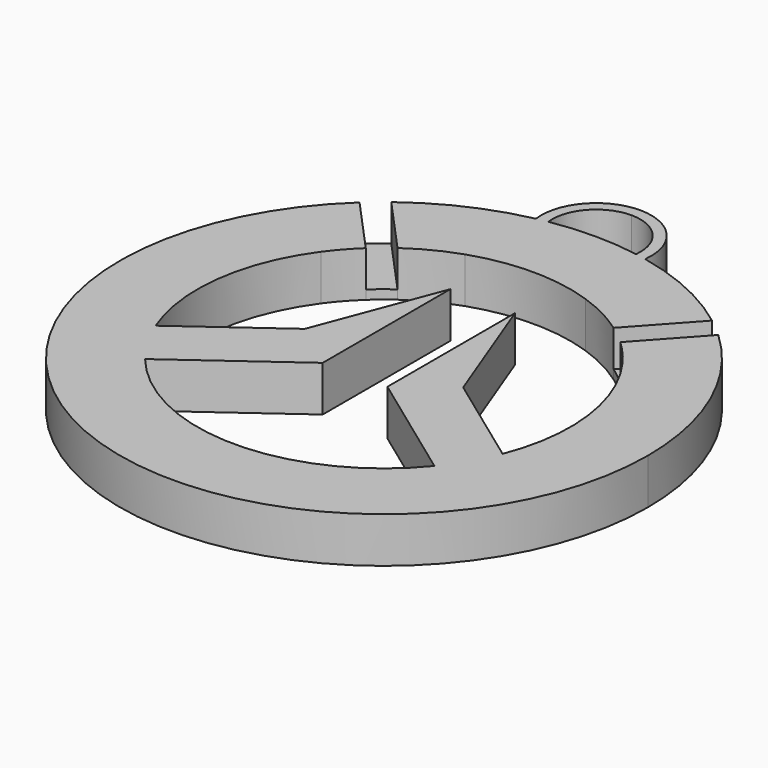
from build123d import *

# Parameters (mm, degrees)
F1_DEPTH = 6.35
F2_DEPTH = 6.35
F3_DEPTH = 1.27
F4_DEPTH = 1.27
F5_DEPTH = 6.35
F6_DEPTH = 6.35


with BuildPart() as f1:
    # F0 (on Top) → F1 (new body)
    with BuildSketch(Plane.XY):
        with BuildLine():
            Line((15.0724098278, 21.2138513725), (22.375966573, 29.2474573979))
            ThreePointArc((22.375966573, 29.2474573979), (15.3764175488, 33.4613721728), (7.62, 36.0282284372))
            ThreePointArc((7.62, 36.0282284372), (6.8712399575, 36.1784978374), (6.1195247725, 36.3132078021))
            ThreePointArc((6.1195247725, 36.3132078021), (0, 36.8252310831), (-6.1195247725, 36.3132078021))
            ThreePointArc((-6.1195247725, 36.3132078021), (-6.8712399575, 36.1784978374), (-7.62, 36.0282284372))
            ThreePointArc((-7.62, 36.0282284372), (-7.6206373591, 36.0280936293), (-7.6212747158, 36.0279588102))
            ThreePointArc((-7.6212747158, 36.0279588102), (-15.3770094975, 33.4611001498), (-22.375966573, 29.2474573979))
            Line((-22.375966573, 29.2474573979), (-15.0724098278, 21.2138513725))
            ThreePointArc((-15.0724098278, 21.2138513725), (-11.8541639172, 23.1664374882), (-8.3878839091, 24.6342938116))
            ThreePointArc((-8.3878839091, 24.6342938116), (0, 26.0231632987), (8.3878839091, 24.6342938116))
            ThreePointArc((8.3878839091, 24.6342938116), (11.8541639172, 23.1664374882), (15.0724098278, 21.2138513725))
        make_face()
    extrude(amount=F1_DEPTH)

    # F0 (on Top) → F5 (cut)
    with BuildSketch(Plane.XY):
        with BuildLine():
            ThreePointArc((-6.1195247725, 36.3132078021), (0, 36.8252310831), (6.1195247725, 36.3132078021))
            ThreePointArc((6.1195247725, 36.3132078021), (4.5971716019, 41.1152747998), (0, 43.1752310831))
            ThreePointArc((0, 43.1752310831), (-4.5971716019, 41.1152747998), (-6.1195247725, 36.3132078021))
        make_face()
    extrude(amount=-F5_DEPTH, mode=Mode.SUBTRACT)

    # F0 (on Top) → F6 (join)
    with BuildSketch(Plane.XY):
        with BuildLine():
            ThreePointArc((6.1195247725, 36.3132078021), (6.8712399575, 36.1784978374), (7.62, 36.0282284372))
            ThreePointArc((7.62, 36.0282284372), (0, 44.6992310831), (-7.62, 36.0282284372))
            ThreePointArc((-7.62, 36.0282284372), (-6.8712399575, 36.1784978374), (-6.1195247725, 36.3132078021))
            ThreePointArc((-6.1195247725, 36.3132078021), (-4.5971716019, 41.1152747998), (0, 43.1752310831))
            ThreePointArc((0, 43.1752310831), (4.5971716019, 41.1152747998), (6.1195247725, 36.3132078021))
        make_face()
    extrude(amount=F6_DEPTH)


with BuildPart() as f2:
    # F0 (on Top) → F2 (new body)
    with BuildSketch(Plane.XY):
        with BuildLine():
            ThreePointArc((-25.0199841303, 27.0203263941), (-14.7433196233, -33.7451058793), (36.8252310831, 0))
            ThreePointArc((36.8252310831, 0), (33.7451058793, 14.7433196233), (25.0199841303, 27.0203263941))
            Line((25.0199841303, 27.0203263941), (17.7531453108, 19.0271085466))
            ThreePointArc((17.7531453108, 19.0271085466), (19.4881594674, 17.2457724861), (21.0452308897, 15.3069685069))
            ThreePointArc((21.0452308897, 15.3069685069), (25.8157518244, 3.2790220816), (24.2036932435, -9.5596161767))
            Line((24.2036932435, -9.5596161767), (17.005158821, -4.326326612))
            Line((17.005158821, -4.326326612), (11.0541770047, 0))
            Line((11.0541770047, 0), (4.5139469962, 17.2177678458))
            Line((4.5139469962, 17.2177678458), (4.5139469962, -5.0363289596))
            Line((4.5139469962, -5.0363289596), (20.1827575969, -16.4274564025))
            ThreePointArc((20.1827575969, -16.4274564025), (0, -26.0231632987), (-20.1827575969, -16.4274564025))
            Line((-20.1827575969, -16.4274564025), (-4.5139469962, -5.0363289596))
            Line((-4.5139469962, -5.0363289596), (-4.5139469962, 0))
            Line((-4.5139469962, 0), (-4.5139469962, 17.2177678458))
            Line((-4.5139469962, 17.2177678458), (-11.0541770047, 0))
            Line((-11.0541770047, 0), (-17.005158821, -4.326326612))
            Line((-17.005158821, -4.326326612), (-24.2036932435, -9.5596161767))
            ThreePointArc((-24.2036932435, -9.5596161767), (-25.8157518244, 3.2790220816), (-21.0452308897, 15.3069685069))
            ThreePointArc((-21.0452308897, 15.3069685069), (-19.4881594674, 17.2457724861), (-17.7531453108, 19.0271085466))
            Line((-17.7531453108, 19.0271085466), (-25.0199841303, 27.0203263941))
        make_face()
    extrude(amount=F2_DEPTH)


with BuildPart() as f3:
    # F0 (on Top) → F3 (new body)
    with BuildSketch(Plane.XY):
        with BuildLine():
            ThreePointArc((-22.375966573, 29.2474573979), (-23.7241240912, 28.1649352995), (-25.0199841303, 27.0203263941))
            Line((-25.0199841303, 27.0203263941), (-17.7531453108, 19.0271085466))
            ThreePointArc((-17.7531453108, 19.0271085466), (-16.4491558624, 20.1650762331), (-15.0724098278, 21.2138513725))
            Line((-15.0724098278, 21.2138513725), (-22.375966573, 29.2474573979))
        make_face()
    extrude(amount=F3_DEPTH)


with BuildPart() as f4:
    # F0 (on Top) → F4 (new body)
    with BuildSketch(Plane.XY):
        with BuildLine():
            Line((17.7531453108, 19.0271085466), (25.0199841303, 27.0203263941))
            ThreePointArc((25.0199841303, 27.0203263941), (23.7241240912, 28.1649352995), (22.375966573, 29.2474573979))
            Line((22.375966573, 29.2474573979), (15.0724098278, 21.2138513725))
            ThreePointArc((15.0724098278, 21.2138513725), (16.4491558624, 20.1650762331), (17.7531453108, 19.0271085466))
        make_face()
    extrude(amount=F4_DEPTH)


solid = Compound([f1.part, f2.part, f3.part, f4.part])
